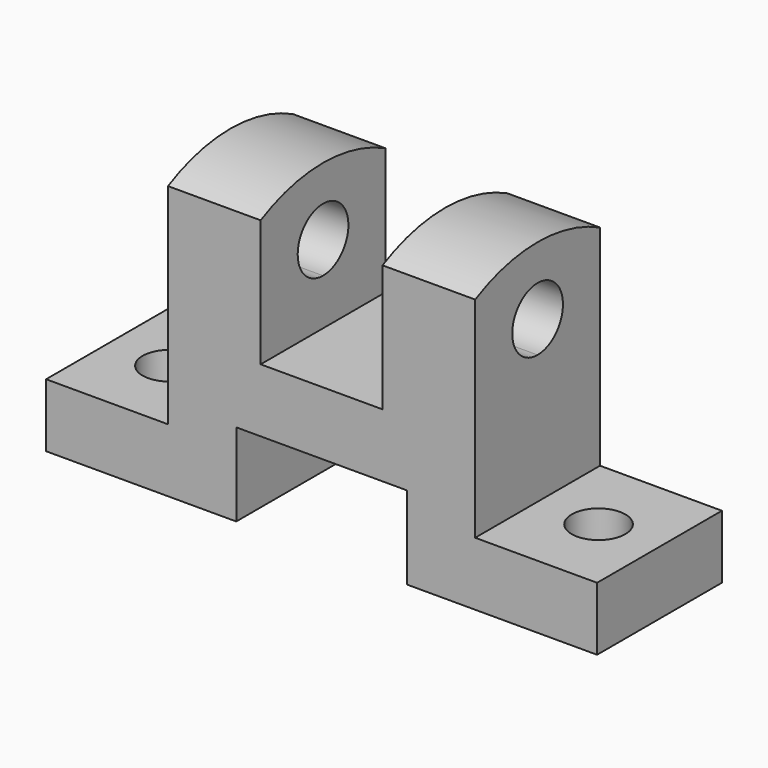
from build123d import *

# Parameters (mm, degrees)
F1_DEPTH = 32
F2_R     = 5.5
F4_DEPTH = 13.001
F3_R     = 5.5
F5_DEPTH = 13.001
F7_DEPTH = 88.001
F9_DEPTH = 88.001


with BuildPart() as f1:
    # F0 (on Front) → F1 (new body)
    with BuildSketch(Plane.XZ):
        Polygon((17.5, 0), (56.5, 0), (56.5, 13), (31.5, 13), (31.5, 64), (12.5, 64), (12.5, 30), (-12.5, 30), (-12.5, 64), (-31.5, 64), (-31.5, 13), (-56.5, 13), (-56.5, 0), (-17.5, 0), (-17.5, 17), (17.5, 17), align=None)
    extrude(amount=F1_DEPTH)

    # F2 (on face) → F4 (cut, through all)
    with BuildSketch(Plane.XY.offset(13)):
        with Locations((-44, -16)):
            Circle(F2_R)
    extrude(amount=-F4_DEPTH, mode=Mode.SUBTRACT)

    # F3 (on face) → F5 (cut, through all)
    with BuildSketch(Plane.XY.offset(13)):
        with Locations((44, -16)):
            Circle(F3_R)
    extrude(amount=-F5_DEPTH, mode=Mode.SUBTRACT)

    # F6 (on face) → F7 (cut, through all)
    with BuildSketch(Plane(origin=(-31.5, 0, 0), x_dir=(0, -1, 0), z_dir=(-1, 0, 0))):
        with BuildLine():
            ThreePointArc((22.5, 46), (11.403806, 50.596194), (16, 39.5))
            ThreePointArc((16, 39.5), (20.596194, 41.403806), (22.5, 46))
        make_face()
    extrude(amount=-F7_DEPTH, mode=Mode.SUBTRACT)

    # F8 (on face) → F9 (cut, through all)
    with BuildSketch(Plane(origin=(-31.5, 0, 0), x_dir=(0, -1, 0), z_dir=(-1, 0, 0))):
        with BuildLine():
            ThreePointArc((0, 56), (16, 59.871235), (32, 56))
            Line((32, 56), (32, 64))
            Line((32, 64), (0, 64))
            Line((0, 64), (0, 56))
        make_face()
    extrude(amount=-F9_DEPTH, mode=Mode.SUBTRACT)


solid = f1.part
